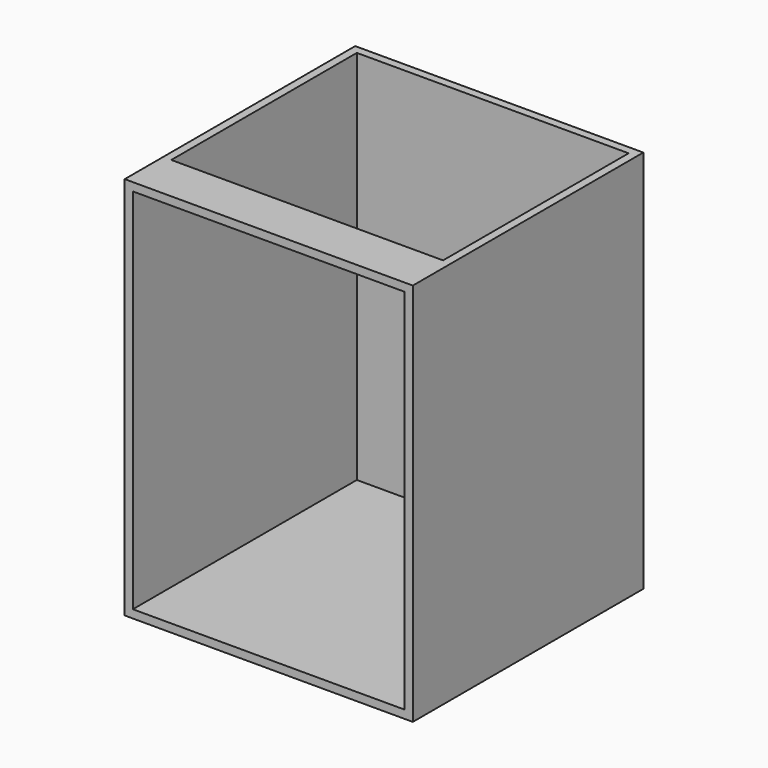
from build123d import *

# Parameters (mm, degrees)
F0_W     = 600
F0_H     = 800
F1_DEPTH = 600
F2_T     = -17
F4_W     = 566
F4_H     = 483
F5_DEPTH = 17


with BuildPart() as f1:
    # F0 (on Front) → F1 (new body)
    with BuildSketch(Plane.XZ):
        with Locations((300, 400)):
            Rectangle(F0_W, F0_H)
    extrude(amount=F1_DEPTH)

    # F2
    f2_openings = [f1.faces().sort_by_distance(p)[0] for p in [
        (300, -600, 400),
    ]]
    offset(amount=F2_T, openings=f2_openings)

    # F4 (on face) → F5 (cut, through all)
    with BuildSketch(Plane.XY.offset(800)):
        with Locations((300, -258.5)):
            Rectangle(F4_W, F4_H)
    extrude(amount=-F5_DEPTH, mode=Mode.SUBTRACT)


solid = f1.part
